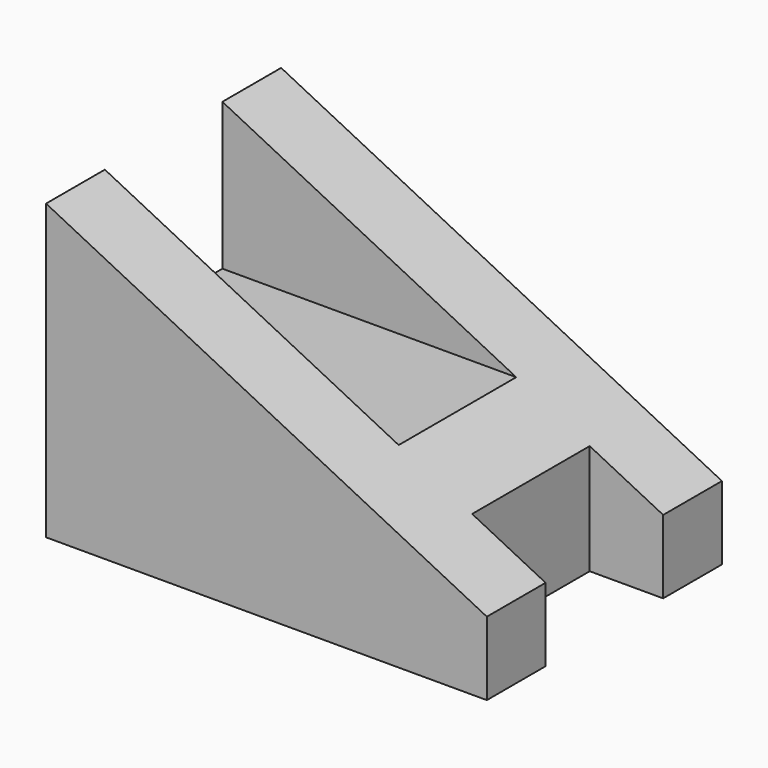
from build123d import *

# Parameters (mm, degrees)
F0_W     = 30
F0_H     = 20
F1_DEPTH = 20
F3_DEPTH = 20.001
F4_W     = 10
F4_H     = 10
F5_DEPTH = 30.001
F6_W     = 5
F6_H     = 10
F7_DEPTH = 20.001


with BuildPart() as f1:
    # F0 (on Front) → F1 (new body)
    with BuildSketch(Plane.XZ):
        with Locations((-15, 10)):
            Rectangle(F0_W, F0_H)
    extrude(amount=-F1_DEPTH)

    # F2 (on Front) → F3 (cut, through all)
    with BuildSketch(Plane.XZ):
        Polygon((-30, 20), (0, 5), (0, 20), align=None)
    extrude(amount=-F3_DEPTH, mode=Mode.SUBTRACT)

    # F4 (on Right) → F5 (cut, through all)
    with BuildSketch(Plane.YZ):
        with Locations((10, 15)):
            Rectangle(F4_W, F4_H)
    extrude(amount=-F5_DEPTH, mode=Mode.SUBTRACT)

    # F6 (on Top) → F7 (cut, through all)
    with BuildSketch(Plane.XY):
        with Locations((-2.5, 10)):
            Rectangle(F6_W, F6_H)
    extrude(amount=F7_DEPTH, mode=Mode.SUBTRACT)


solid = f1.part
